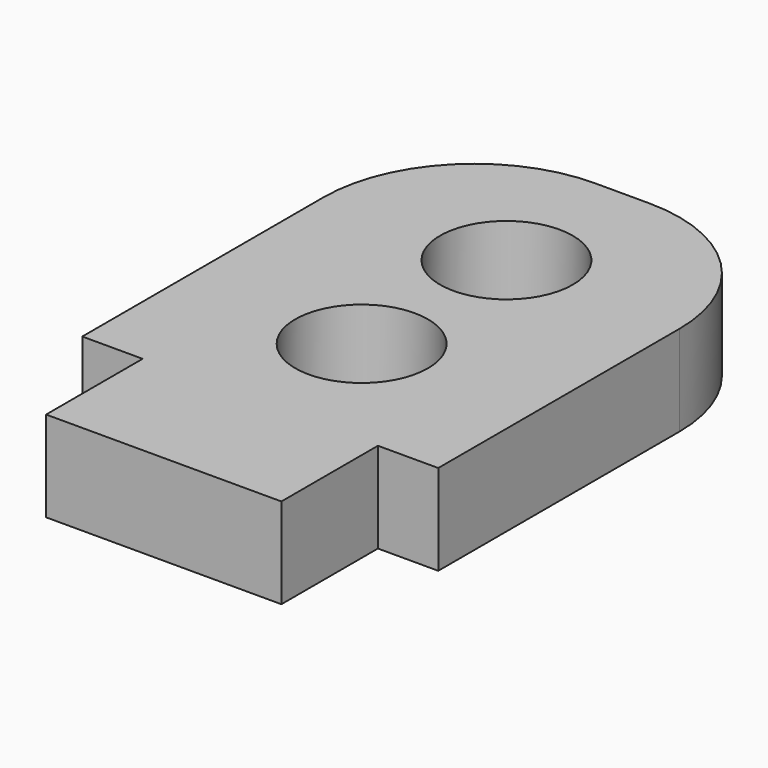
from build123d import *

# Parameters (mm, degrees)
SKETCH001_R = 2.2
PAD_DEPTH   = 3
FILLET_R    = 5


with BuildPart() as part:
    # Sketch001 → Pad (new body)
    with BuildSketch(Plane.XY):
        Polygon((3.9, -6), (-3.9, -6), (-3.9, -2), (-5.9, -2), (-5.9, 13), (5.9, 13), (5.9, -2), (3.9, -2), align=None)
        with Locations((0, 8.2)):
            Circle(SKETCH001_R, mode=Mode.SUBTRACT)
        with Locations((0, 2.2)):
            Circle(SKETCH001_R, mode=Mode.SUBTRACT)
    extrude(amount=PAD_DEPTH)

    # Fillet
    fillet_edges = [part.edges().sort_by_distance(p)[0] for p in [
        (5.9, 13, 1.5),
        (-5.9, 13, 1.5),
    ]]
    fillet(fillet_edges, radius=FILLET_R)


solid = part.part
